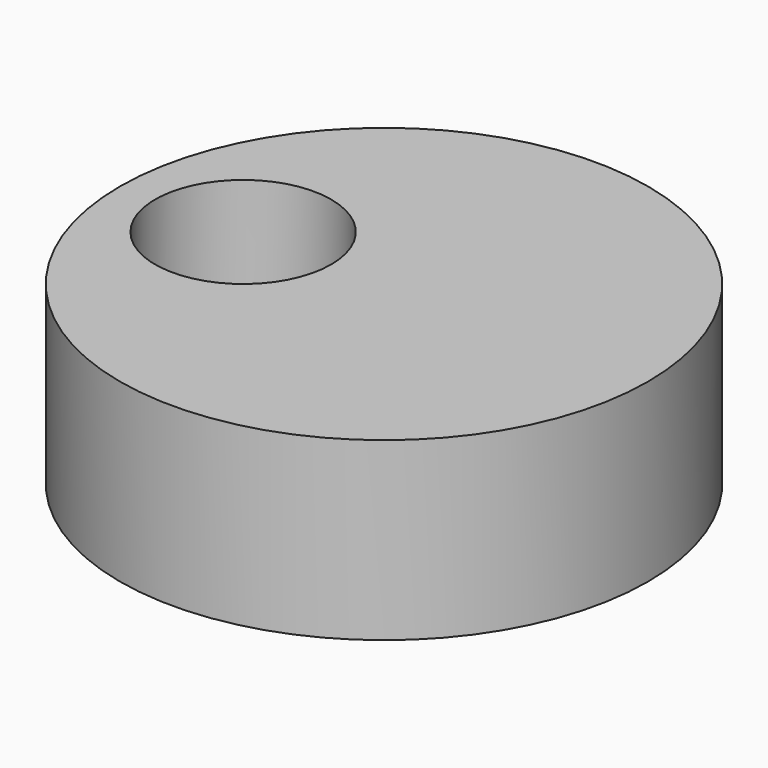
from build123d import *

# Parameters (mm, degrees)
F1_R     = 75
F1_R_2   = 25
F0_DEPTH = 50


with BuildPart() as f0:
    # F1 (on Top) → F0 (new body)
    with BuildSketch(Plane.XY):
        with Locations((40, 0)):
            Circle(F1_R)
        Circle(F1_R_2, mode=Mode.SUBTRACT)
    extrude(amount=F0_DEPTH)


solid = f0.part
